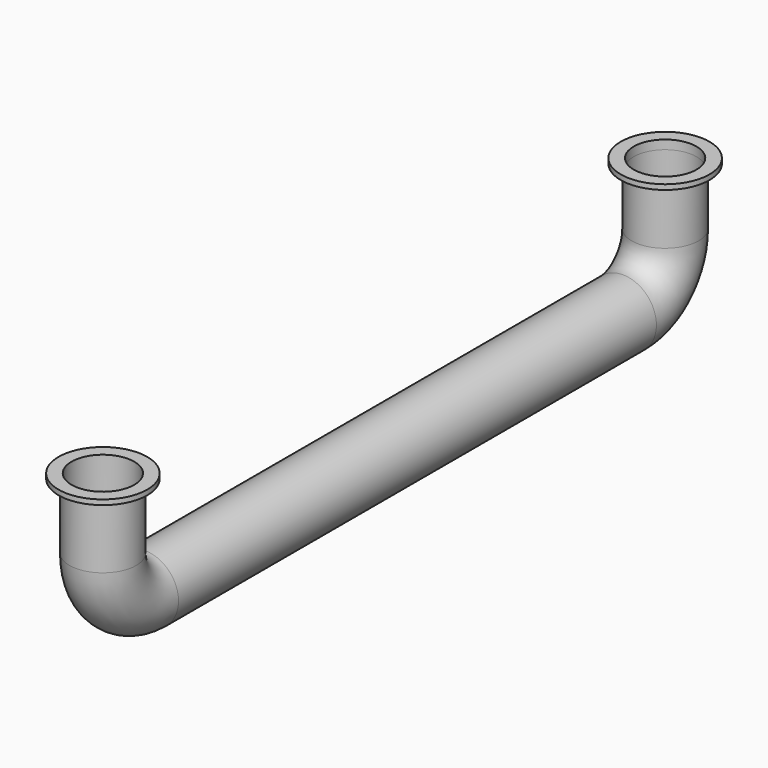
from build123d import *

# Parameters (mm, degrees)
F2_R   = 19.05
F2_R_2 = 17.85


with BuildPart() as f1:
    # F0 (on Front) → F1 (revolve)
    with BuildSketch(Plane.XZ):
        Polygon((17.85, 5.1066154525), (17.85, 0), (19.05, 0), (25.25, 2.2566154525), (25.25, 5.1066154525), align=None)
    revolve(axis=Axis((0, 0, 5.6449943222), (0, 0, 1)))

    # F4: sweep along a path in F3
    with BuildLine(Plane.YZ) as f4_path:
        Line((0, 0), (0, -34.8933845475))
        ThreePointArc((0, -34.8933845475), (8.7867965644, -56.1065879831), (30, -64.8933845475))
        Line((30, -64.8933845475), (370, -64.8933845475))
        ThreePointArc((370, -64.8933845475), (391.2132034356, -56.1065879831), (400, -34.8933845475))
        Line((400, -34.8933845475), (400, -4.6830023639))
    # F2 (on Top) → F4 (sweep)
    with BuildSketch(Plane.XY):
        Circle(F2_R)
        Circle(F2_R_2, mode=Mode.SUBTRACT)
    sweep(path=f4_path.line)

    # F5 (on Right) → F6 (revolve)
    with BuildSketch(Plane.YZ):
        Polygon((417.85, 0.4236130886), (417.85, -4.6830023639), (419.05, -4.6830023639), (425.25, -2.4263869114), (425.25, 0.4236130886), align=None)
    revolve(axis=Axis((0, 400, -19.7881934557), (0, 0, 1)))


solid = f1.part
